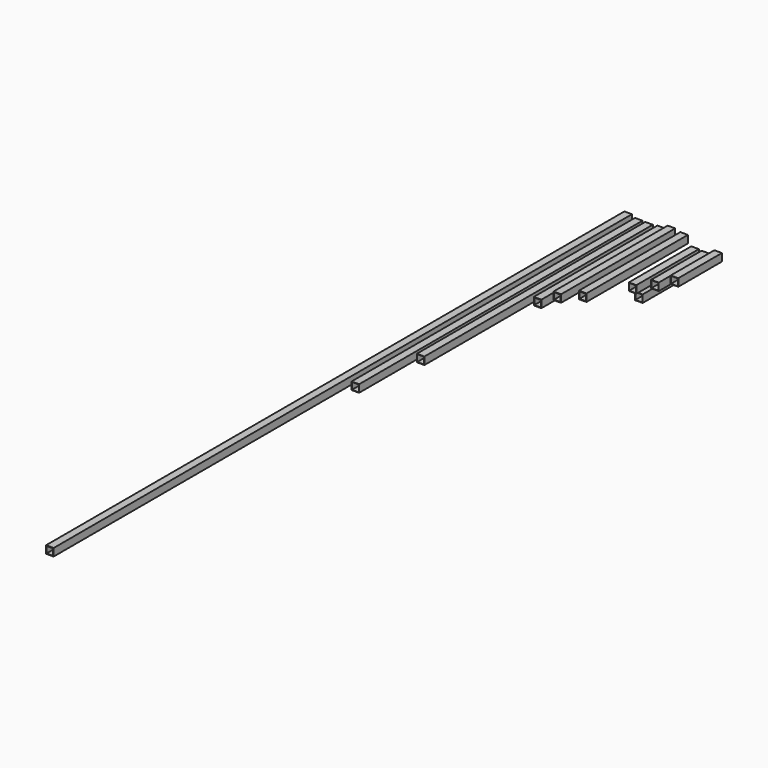
from build123d import *

# Parameters (mm, degrees)
F0_W      = 45
F0_H      = 45
F0_W_2    = 39
F0_H_2    = 39
F1_DEPTH  = 755
F2_DEPTH  = 850
F3_DEPTH  = 920
F0_W_3    = 41
F0_H_3    = 41
F4_DEPTH  = 1700
F5_DEPTH  = 2110
F6_DEPTH  = 465
F7_DEPTH  = 375
F8_DEPTH  = 4305
F9_DEPTH  = 325
F10_DEPTH = 420


with BuildPart() as f1:
    # F0 (on Front) → F1 (new body)
    with BuildSketch(Plane.XZ):
        with Locations((22.5, 22.5)):
            Rectangle(F0_W, F0_H)
        with Locations((22.5, 22.5)):
            Rectangle(F0_W_2, F0_H_2, mode=Mode.SUBTRACT)
    extrude(amount=F1_DEPTH)


with BuildPart() as f2:
    # F0 (on Front) → F2 (new body)
    with BuildSketch(Plane.XZ):
        with Locations((-52.787446, 32.224624)):
            Rectangle(F0_W, F0_H)
        with Locations((-52.787446, 32.224624)):
            Rectangle(F0_W_2, F0_H_2, mode=Mode.SUBTRACT)
    extrude(amount=F2_DEPTH)


with BuildPart() as f3:
    # F0 (on Front) → F3 (new body)
    with BuildSketch(Plane.XZ):
        with Locations((-114.095398, 12.497777)):
            Rectangle(F0_W, F0_H)
        with Locations((-114.095398, 12.497777)):
            Rectangle(F0_W_2, F0_H_2, mode=Mode.SUBTRACT)
    extrude(amount=F3_DEPTH)


with BuildPart() as f4:
    # F0 (on Front) → F4 (new body)
    with BuildSketch(Plane.XZ):
        with Locations((-186.620572, 7.856163)):
            Rectangle(F0_W, F0_H)
        with Locations((-186.620572, 7.856163)):
            Rectangle(F0_W_3, F0_H_3, mode=Mode.SUBTRACT)
    extrude(amount=F4_DEPTH)


with BuildPart() as f5:
    # F0 (on Front) → F5 (new body)
    with BuildSketch(Plane.XZ):
        with Locations((-247.606673, 9.299338)):
            Rectangle(F0_W, F0_H)
        with Locations((-247.606673, 9.299338)):
            Rectangle(F0_W_3, F0_H_3, mode=Mode.SUBTRACT)
    extrude(amount=F5_DEPTH)


with BuildPart() as f6:
    # F0 (on Front) → F6 (new body)
    with BuildSketch(Plane.XZ):
        with Locations((87.659239, -30.886372)):
            Rectangle(F0_W, F0_H)
        with Locations((87.659239, -30.886372)):
            Rectangle(F0_W_3, F0_H_3, mode=Mode.SUBTRACT)
    extrude(amount=F6_DEPTH)


with BuildPart() as f7:
    # F0 (on Front) → F7 (new body)
    with BuildSketch(Plane.XZ):
        with Locations((148.977748, -33.940547)):
            Rectangle(F0_W, F0_H)
        with Locations((148.977748, -33.940547)):
            Rectangle(F0_W_3, F0_H_3, mode=Mode.SUBTRACT)
    extrude(amount=F7_DEPTH)


with BuildPart() as f8:
    # F0 (on Front) → F8 (new body)
    with BuildSketch(Plane.XZ):
        with Locations((-310.793617, 22.5)):
            Rectangle(F0_W, F0_H)
        with Locations((-310.793617, 22.5)):
            Rectangle(F0_W_2, F0_H_2, mode=Mode.SUBTRACT)
    extrude(amount=F8_DEPTH)


with BuildPart() as f9:
    # F0 (on Front) → F9 (new body)
    with BuildSketch(Plane.XZ):
        with Locations((225.195891, -6.599107)):
            Rectangle(F0_W, F0_H)
        with Locations((225.195891, -6.599107)):
            Rectangle(F0_W_3, F0_H_3, mode=Mode.SUBTRACT)
    extrude(amount=F9_DEPTH)


with BuildPart() as f10:
    # F0 (on Front) → F10 (new body)
    with BuildSketch(Plane.XZ):
        with Locations((89.010312, -97.255574)):
            Rectangle(F0_W, F0_H)
        with Locations((89.010312, -97.255574)):
            Rectangle(F0_W_3, F0_H_3, mode=Mode.SUBTRACT)
    extrude(amount=F10_DEPTH)


solid = Compound([f1.part, f2.part, f3.part, f4.part, f5.part, f6.part, f7.part, f8.part, f9.part, f10.part])
